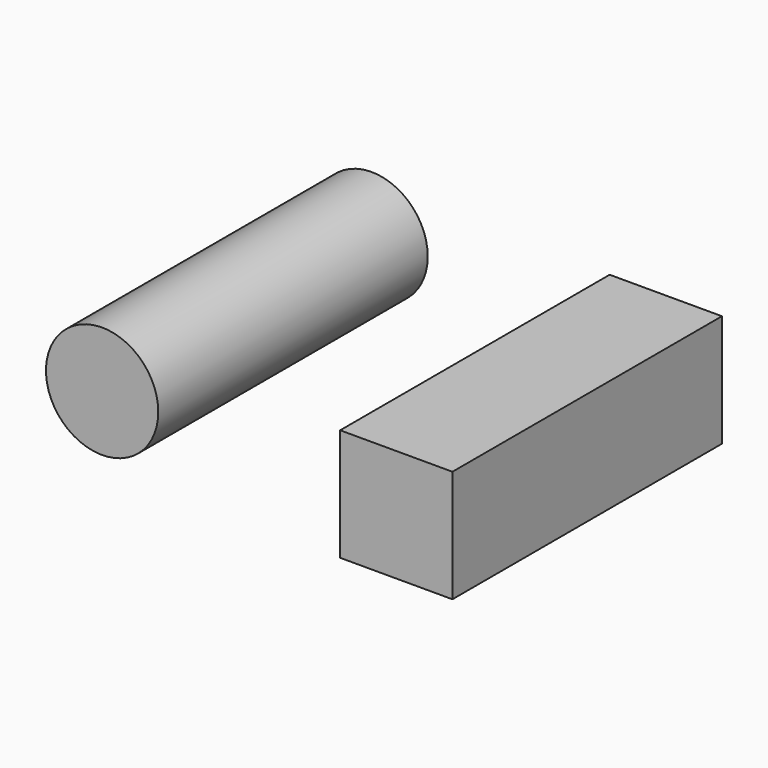
from build123d import *

# Parameters (mm, degrees)
F0_R     = 12.7
F0_W     = 25.4
F0_H     = 25.4
F1_DEPTH = 76.2


with BuildPart() as f1:
    # F0 (on Front) → F1 (new body)
    with BuildSketch(Plane.XZ):
        with Locations((-35.899475, 18.904511)):
            Circle(F0_R)
        with Locations((30.646707, 15.946229)):
            Rectangle(F0_W, F0_H)
    extrude(amount=F1_DEPTH)


solid = f1.part
